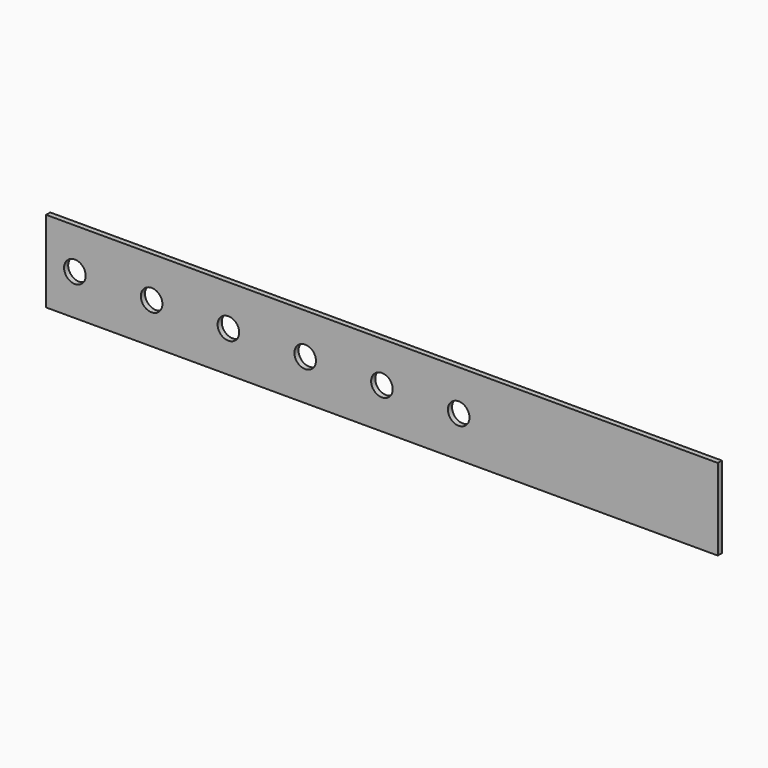
from build123d import *

# Parameters (mm, degrees)
F0_W     = 444.5
F0_H     = 53.975
F0_R     = 7.14375
F1_DEPTH = 3.429


with BuildPart() as f1:
    # F0 (on Front) → F1 (new body)
    with BuildSketch(Plane.XZ):
        with Locations((-484.211909, 551.044186)):
            Rectangle(F0_W, F0_H)
        with Locations((-687.411909, 551.044186)):
            Circle(F0_R, mode=Mode.SUBTRACT)
        with Locations((-636.611909, 551.044186)):
            Circle(F0_R, mode=Mode.SUBTRACT)
        with Locations((-585.811909, 551.044186)):
            Circle(F0_R, mode=Mode.SUBTRACT)
        with Locations((-535.011909, 551.044186)):
            Circle(F0_R, mode=Mode.SUBTRACT)
        with Locations((-484.211909, 551.044186)):
            Circle(F0_R, mode=Mode.SUBTRACT)
        with Locations((-433.411909, 551.044186)):
            Circle(F0_R, mode=Mode.SUBTRACT)
    extrude(amount=F1_DEPTH)


solid = f1.part
